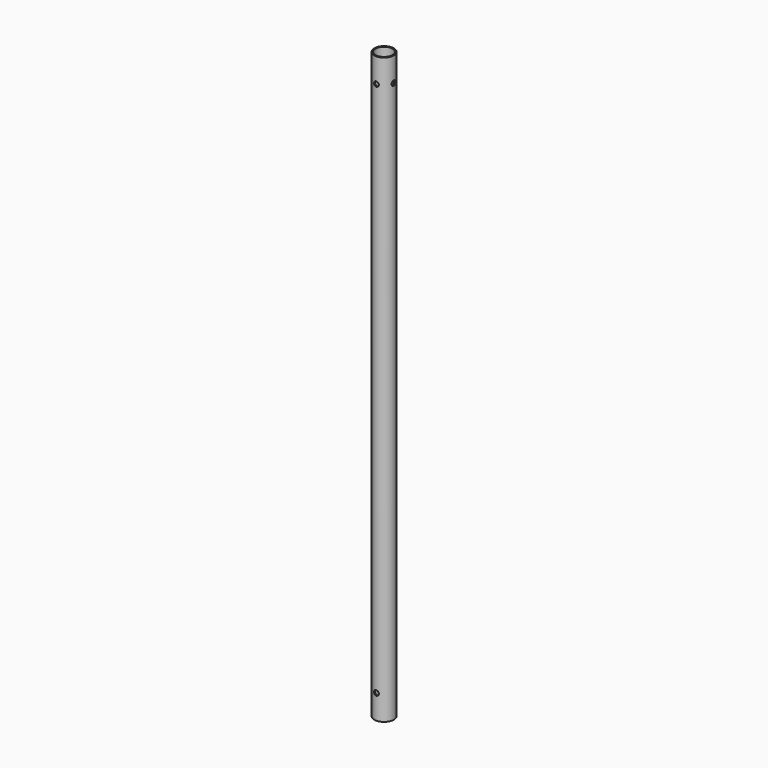
from build123d import *

# Parameters (mm, degrees)
F0_R     = 25.4
F0_R_2   = 22.225
F1_DEPTH = 1524
F2_R     = 6.35
F3_DEPTH = 25.4
F4_R     = 6.35
F5_DEPTH = 38.1


with BuildPart() as f1:
    # F0 (on Top) → F1 (new body)
    with BuildSketch(Plane.XY):
        Circle(F0_R)
        Circle(F0_R_2, mode=Mode.SUBTRACT)
    extrude(amount=F1_DEPTH)

    # F2 (on Front) → F3 (cut, symmetric)
    with BuildSketch(Plane.XZ):
        with Locations((0, 1460.5)):
            Circle(F2_R)
        with Locations((0, 63.5)):
            Circle(F2_R)
    extrude(amount=F3_DEPTH, both=True, mode=Mode.SUBTRACT)

    # F4 (on Right) → F5 (cut, symmetric)
    with BuildSketch(Plane.YZ):
        with Locations((0, 1460.5)):
            Circle(F4_R)
    extrude(amount=F5_DEPTH, both=True, mode=Mode.SUBTRACT)


solid = f1.part
